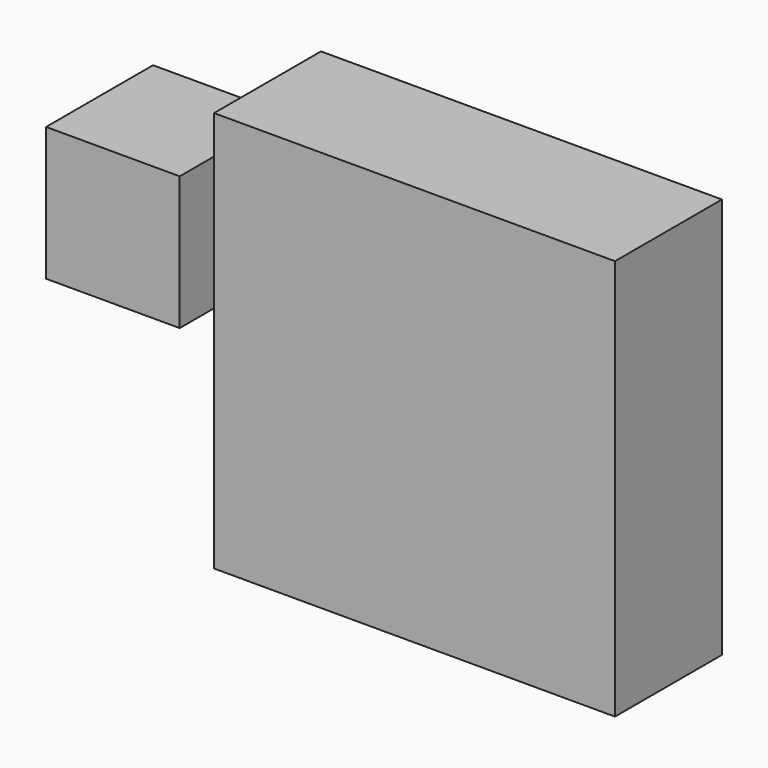
from build123d import *

# Parameters (mm, degrees)
F0_W     = 152.4
F0_H     = 152.4
F1_DEPTH = 50.8
F0_W_2   = 50.8
F0_H_2   = 50.8


with BuildPart() as f1:
    # F0 (on Front) → F1 (new body)
    with BuildSketch(Plane.XZ):
        Rectangle(F0_W, F0_H)
    extrude(amount=F1_DEPTH)


with BuildPart() as f1b:
    # F0 (on Front) → F1, piece 2 (new body)
    with BuildSketch(Plane.XZ):
        with Locations((-114.6507156134, 25.4)):
            Rectangle(F0_W_2, F0_H_2)
    extrude(amount=F1_DEPTH)


solid = Compound([f1.part, f1b.part])
